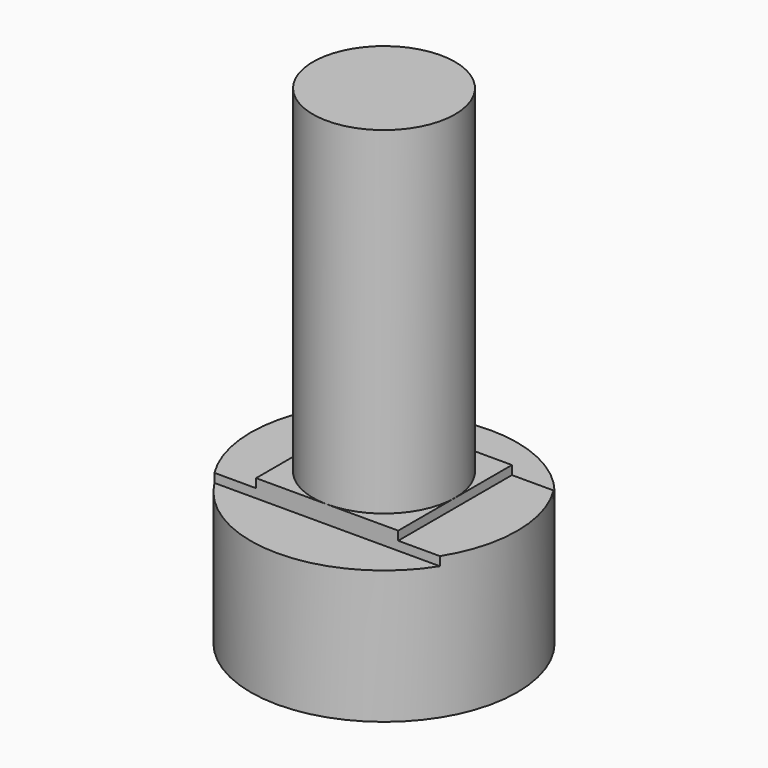
from build123d import *

# Parameters (mm, degrees)
CYLINDER_R        = 1.6
CYLINDER_DEPTH    = 11
BOX041_W          = 10
BOX041_H          = 5
BOX041_DEPTH      = 0.4
BOX038_W          = 5
BOX038_H          = 10
BOX038_DEPTH      = 0.2
BOX040_W          = 10
BOX040_H          = 5
BOX040_DEPTH      = 0.4
BOX039_W          = 5
BOX039_H          = 10
BOX039_DEPTH      = 0.2
CYLINDER020_R     = 3
CYLINDER020_DEPTH = 3.4


with BuildPart() as obj1:
    # Cylinder → Cylinder (new body)
    with BuildSketch(Plane(origin=(12.25, 11.13, 0), x_dir=(1, 0, 0), z_dir=(0, 0, 1))):
        Circle(CYLINDER_R)
    extrude(amount=CYLINDER_DEPTH)


with BuildPart() as cube035:
    # Box041 → Box041 (new body)
    with BuildSketch(Plane(origin=(-5, 1.6, 3), x_dir=(1, 0, 0), z_dir=(0, 0, 1))):
        with Locations((5, 2.5)):
            Rectangle(BOX041_W, BOX041_H)
    extrude(amount=BOX041_DEPTH)


with BuildPart() as cube032:
    # Box038 → Box038 (new body)
    with BuildSketch(Plane(origin=(1.6, -5, 3.2), x_dir=(1, 0, 0), z_dir=(0, 0, 1))):
        with Locations((2.5, 5)):
            Rectangle(BOX038_W, BOX038_H)
    extrude(amount=BOX038_DEPTH)


with BuildPart() as cube034:
    # Box040 → Box040 (new body)
    with BuildSketch(Plane(origin=(-5, -6.6, 3), x_dir=(1, 0, 0), z_dir=(0, 0, 1))):
        with Locations((5, 2.5)):
            Rectangle(BOX040_W, BOX040_H)
    extrude(amount=BOX040_DEPTH)


with BuildPart() as fusion002010004002002006003002002002:
    # Box039 → Box039 (new body)
    with BuildSketch(Plane(origin=(-6.6, -5, 3.2), x_dir=(1, 0, 0), z_dir=(0, 0, 1))):
        with Locations((2.5, 5)):
            Rectangle(BOX039_W, BOX039_H)
    extrude(amount=BOX039_DEPTH)

    # Fusion002010004002002006003002002002: union Cube035, Cube032, Cube034
    add(cube035.part)
    add(cube032.part)
    add(cube034.part)


with BuildPart() as back_screw:
    # Cylinder020 → Cylinder020 (new body)
    with BuildSketch(Plane.XY):
        Circle(CYLINDER020_R)
    extrude(amount=CYLINDER020_DEPTH)

    # Cut001012003011002008006006009003008009: cut Fusion002010004002002006003002002002
    add(fusion002010004002002006003002002002.part, mode=Mode.SUBTRACT)


with BuildPart() as back_screw_1:
    # Cut001012003011002008006006009003008009 placement: moved
    add(back_screw.part.moved(Location((12.25, 11.13, 0))))

    # Fusion002010004002002006003002002004: union obj1
    add(obj1.part)


solid = back_screw_1.part
